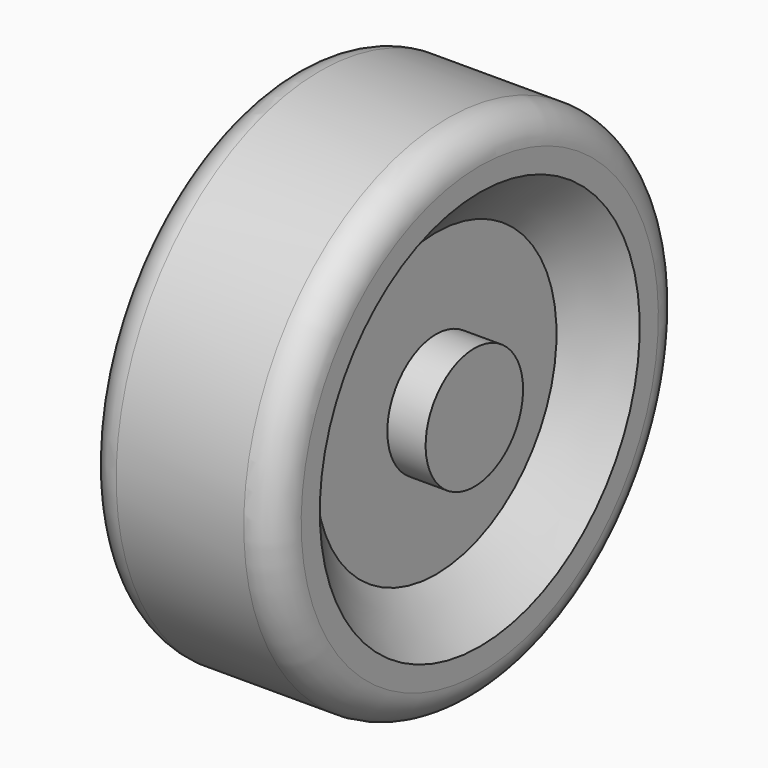
from build123d import *

# Parameters (mm, degrees)
F2_R = 5


with BuildPart() as f1:
    # F0 (on Front) → F1 (revolve)
    with BuildSketch(Plane.XZ):
        Polygon((-14.153153, 0), (0, 0), (0, 40), (-15, 40), (-15, 31.351346), (-8.153153, 23.603595), (-8.153153, 9.549548), (-14.153153, 9.549548), align=None)
        Polygon((0, 40), (0, 0), (14.153153, 0), (14.153153, 9.549548), (8.153153, 9.549548), (8.153153, 23.603595), (15, 31.351346), (15, 40), align=None)
    revolve(axis=Axis((7.076576, 0, 0), (-1, 0, 0)))

    # F2
    f2_edges = [f1.edges().sort_by_distance(p)[0] for p in [
        (15, 0, -40),
        (-15, 0, -40),
    ]]
    fillet(f2_edges, radius=F2_R)


solid = f1.part
